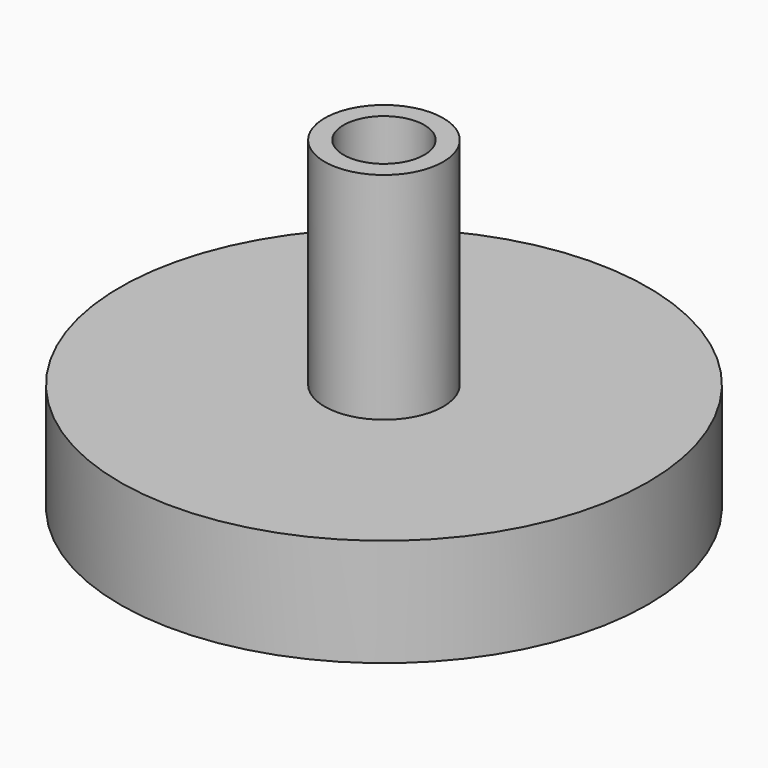
from build123d import *

# Parameters (mm, degrees)
F2_R     = 4.7625
F3_DEPTH = 9.525
F4_R     = 1.5875
F5_DEPTH = 22.225


with BuildPart() as f1:
    # F0 (on Front) → F1 (revolve)
    with BuildSketch(Plane.XZ):
        Polygon((3.81, 1.888357), (31.115, 12.7), (31.115, 25.4), (6.985, 25.4), (6.985, 50.8), (0, 50.8), (0, 1.888357), align=None)
    revolve(axis=Axis((0, 0, 26.344178), (0, 0, -1)))

    # F2 (on face) → F3 (cut)
    with BuildSketch(Plane.XY.offset(50.8)):
        Circle(F2_R)
    extrude(amount=-F3_DEPTH, mode=Mode.SUBTRACT)

    # F4 (on face) → F5 (cut)
    with BuildSketch(Plane(origin=(0, 0, 1.888357), x_dir=(1, 0, 0), z_dir=(0, 0, -1))):
        Circle(F4_R)
    extrude(amount=-F5_DEPTH, mode=Mode.SUBTRACT)


solid = f1.part
